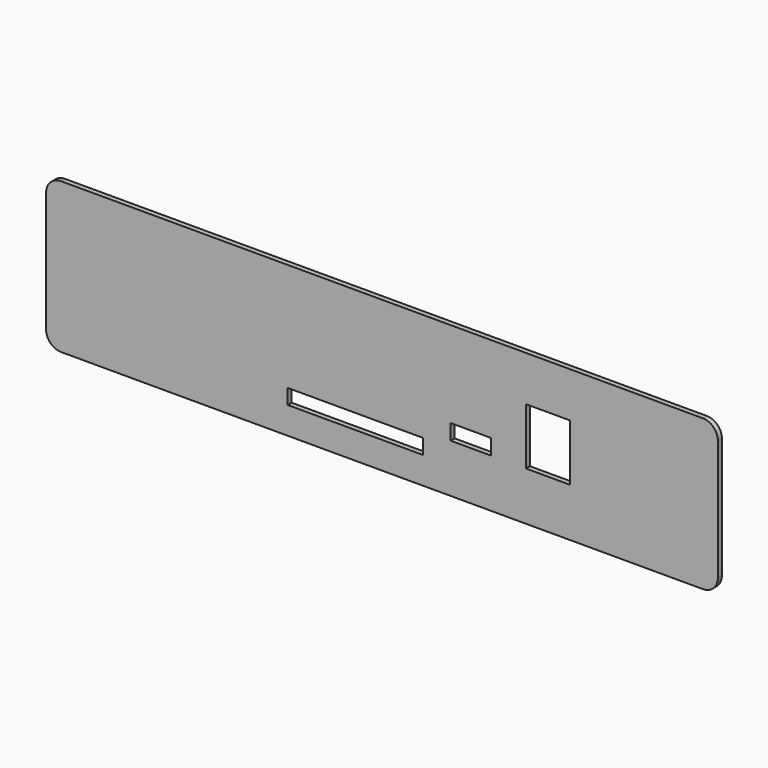
from build123d import *

# Parameters (mm, degrees)
F0_W     = 27
F0_H     = 3
F0_W_2   = 8
F0_H_2   = 3.1
F0_W_3   = 8.8
F0_H_3   = 11.3
F1_DEPTH = 1


with BuildPart() as f1:
    # F0 (on Front) → F1 (new body)
    with BuildSketch(Plane.XZ):
        with BuildLine():
            Line((64, 15), (-64, 15))
            ThreePointArc((-64, 15), (-66.12132, 14.12132), (-67, 12))
            Line((-67, 12), (-67, -12))
            ThreePointArc((-67, -12), (-66.12132, -14.12132), (-64, -15))
            Line((-64, -15), (64, -15))
            ThreePointArc((64, -15), (66.12132, -14.12132), (67, -12))
            Line((67, -12), (67, 12))
            ThreePointArc((67, 12), (66.12132, 14.12132), (64, 15))
        make_face()
        with Locations((-5.3, -8.1)):
            Rectangle(F0_W, F0_H, mode=Mode.SUBTRACT)
        with Locations((17.7, -3.75)):
            Rectangle(F0_W_2, F0_H_2, mode=Mode.SUBTRACT)
        with Locations((33.1, 0.35)):
            Rectangle(F0_W_3, F0_H_3, mode=Mode.SUBTRACT)
    extrude(amount=-F1_DEPTH)


solid = f1.part
